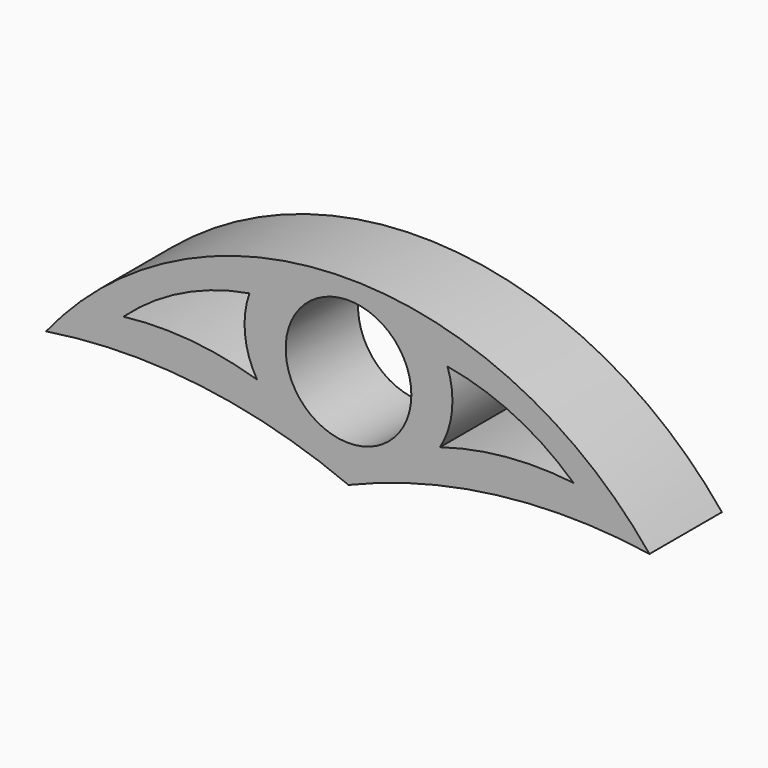
from build123d import *

# Parameters (mm, degrees)
F0_R     = 13.225253
F1_DEPTH = 19.05


with BuildPart() as f1:
    # F0 (on Front) → F1 (new body)
    with BuildSketch(Plane.XZ):
        with BuildLine():
            ThreePointArc((0, -20.988816), (31.129003, -12.7306), (63.331667, -13.179377))
            ThreePointArc((63.331667, -13.179377), (-0.160894, 17.222668), (-63.631467, -13.225253))
            ThreePointArc((-63.631467, -13.225253), (-31.27952, -12.712138), (0, -20.988816))
        make_face()
        with BuildLine():
            ThreePointArc((-20.831008, 7.732722), (-21.775929, -0.176936), (-19.2529, -7.732722))
            ThreePointArc((-19.2529, -7.732722), (-33.166597, -5.007828), (-47.343198, -5.207751))
            ThreePointArc((-47.343198, -5.207751), (-35.019529, 3.172822), (-20.831008, 7.732722))
        make_face(mode=Mode.SUBTRACT)
        Circle(F0_R, mode=Mode.SUBTRACT)
        with BuildLine():
            ThreePointArc((19.2529, -7.732722), (21.775929, -0.176936), (20.831008, 7.732722))
            ThreePointArc((20.831008, 7.732722), (35.019529, 3.172822), (47.343198, -5.207751))
            ThreePointArc((47.343198, -5.207751), (33.166597, -5.007828), (19.2529, -7.732722))
        make_face(mode=Mode.SUBTRACT)
    extrude(amount=F1_DEPTH)


solid = f1.part
